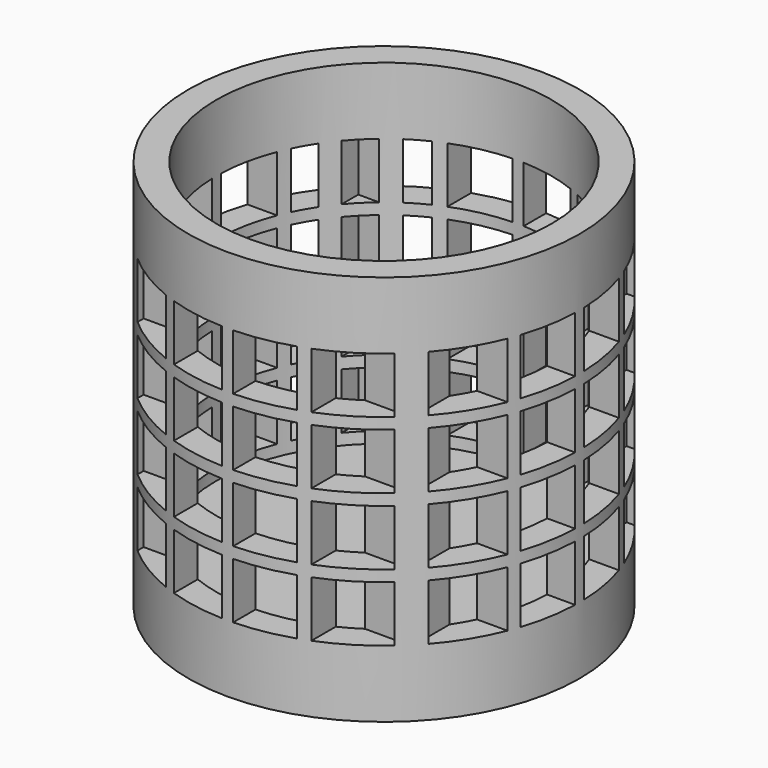
from build123d import *

# Parameters (mm, degrees)
CYLINDER002_R     = 35
CYLINDER002_DEPTH = 10
CYLINDER001_R     = 35
CYLINDER001_DEPTH = 70
CYLINDER_R        = 30
CYLINDER_DEPTH    = 70
BOX_W             = 10
BOX_H             = 10
BOX_DEPTH         = 10
ARRAY_X_COUNT     = 6
ARRAY_X_PITCH     = 12
ARRAY_Y_COUNT     = 6
ARRAY_Y_PITCH     = 12
ARRAY_Z_COUNT     = 6
ARRAY_Z_PITCH     = 12
BOX001_W          = 70
BOX001_H          = 70
BOX001_DEPTH      = 70
CYLINDER004_R     = 30
CYLINDER004_DEPTH = 10
CYLINDER003_R     = 35
CYLINDER003_DEPTH = 10


with BuildPart() as cilindro002:
    # Cylinder002 → Cylinder002 (new body)
    with BuildSketch(Plane.XY):
        Circle(CYLINDER002_R)
    extrude(amount=CYLINDER002_DEPTH)


with BuildPart() as cilindro001:
    # Cylinder001 → Cylinder001 (new body)
    with BuildSketch(Plane.XY):
        Circle(CYLINDER001_R)
    extrude(amount=CYLINDER001_DEPTH)


with BuildPart() as cilindro:
    # Cylinder → Cylinder (new body)
    with BuildSketch(Plane.XY):
        Circle(CYLINDER_R)
    extrude(amount=CYLINDER_DEPTH)


with BuildPart() as array:
    # Box → Box (new body)
    with BuildSketch(Plane.XY):
        with Locations((5, 5)):
            Rectangle(BOX_W, BOX_H)
    extrude(amount=BOX_DEPTH)

    # Array X: Array ×6


with BuildPart() as array_1:
    add(array.part)
    with Locations(*[(i * ARRAY_X_PITCH, 0, 0) for i in range(1, ARRAY_X_COUNT)]):
        add(array.part)

    # Array Y: Array ×6


with BuildPart() as array_2:
    add(array_1.part)
    with Locations(*[(0, i * ARRAY_Y_PITCH, 0) for i in range(1, ARRAY_Y_COUNT)]):
        add(array_1.part)

    # Array Z: Array ×6


with BuildPart() as array_3:
    add(array_2.part)
    with Locations(*[(0, 0, i * ARRAY_Z_PITCH) for i in range(1, ARRAY_Z_COUNT)]):
        add(array_2.part)


with BuildPart() as array_4:
    # Array placement: moved
    add(array_3.part.moved(Location((-35, -35, 0))))


with BuildPart() as common:
    # Box001 → Box001 (new body)
    with BuildSketch(Plane(origin=(-35, -35, 0), x_dir=(1, 0, 0), z_dir=(0, 0, 1))):
        with Locations((35, 35)):
            Rectangle(BOX001_W, BOX001_H)
    extrude(amount=BOX001_DEPTH)

    # Cut: cut Array
    add(array_4.part, mode=Mode.SUBTRACT)

    # Cut001: cut Cilindro
    add(cilindro.part, mode=Mode.SUBTRACT)

    # Common: intersect Cilindro001
    add(cilindro001.part, mode=Mode.INTERSECT)


with BuildPart() as cilindro004:
    # Cylinder004 → Cylinder004 (new body)
    with BuildSketch(Plane.XY.offset(60)):
        Circle(CYLINDER004_R)
    extrude(amount=CYLINDER004_DEPTH)


with BuildPart() as fusion:
    # Cylinder003 → Cylinder003 (new body)
    with BuildSketch(Plane.XY.offset(60)):
        Circle(CYLINDER003_R)
    extrude(amount=CYLINDER003_DEPTH)

    # Cut002: cut Cilindro004
    add(cilindro004.part, mode=Mode.SUBTRACT)

    # Fusion: union Cilindro002, Common
    add(cilindro002.part)
    add(common.part)


solid = fusion.part
